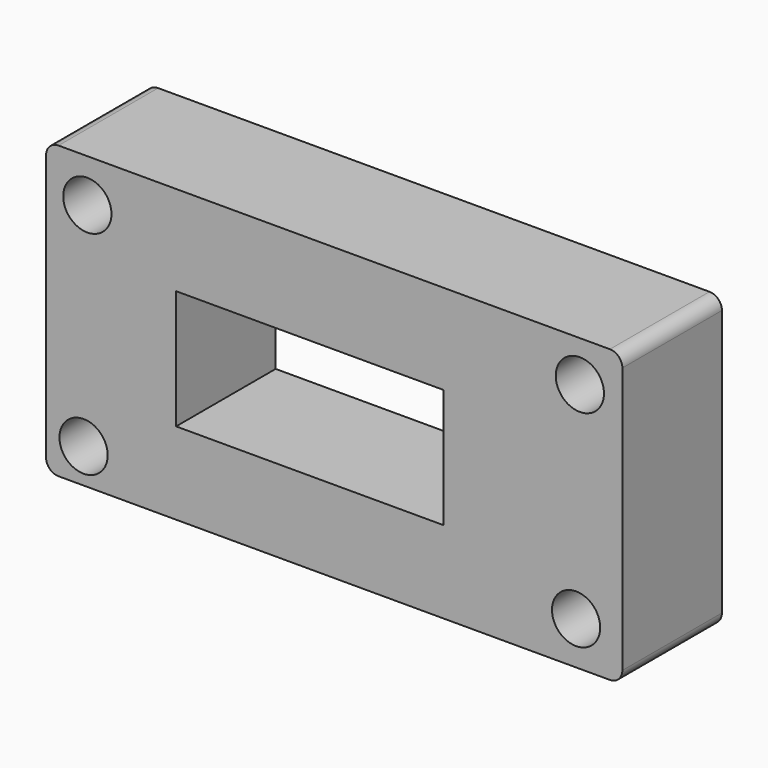
from build123d import *

# Parameters (mm, degrees)
F0_W     = 235.203512
F0_H     = 118.836838
F0_R     = 9.843794
F0_W_2   = 109.183416
F0_H_2   = 48.583305
F1_DEPTH = 50.8
F2_R     = 5.08
F3_R     = 5.08
F4_R     = 5.08


with BuildPart() as f1:
    # F0 (on Front) → F1 (new body)
    with BuildSketch(Plane.XZ):
        with Locations((-7.397939, -7.492734)):
            Rectangle(F0_W, F0_H)
        with Locations((-109.693609, -52.839234)):
            Circle(F0_R, mode=Mode.SUBTRACT)
        with Locations((-17.346896, -9.089239)):
            Rectangle(F0_W_2, F0_H_2, mode=Mode.SUBTRACT)
        with Locations((91.326304, -49.401499)):
            Circle(F0_R, mode=Mode.SUBTRACT)
        with Locations((-108.162999, 34.3371)):
            Circle(F0_R, mode=Mode.SUBTRACT)
        with Locations((92.856914, 35.22383)):
            Circle(F0_R, mode=Mode.SUBTRACT)
    extrude(amount=F1_DEPTH)

    # F2
    f2_edges = [f1.edges().sort_by_distance(p)[0] for p in [
        (110.203817, -25.4, -66.911153),
        (-124.999695, -25.4, -66.911153),
    ]]
    fillet(f2_edges, radius=F2_R)

    # F3
    f3_edges = [f1.edges().sort_by_distance(p)[0] for p in [
        (-124.999695, -25.4, 51.925685),
    ]]
    fillet(f3_edges, radius=F3_R)

    # F4
    f4_edges = [f1.edges().sort_by_distance(p)[0] for p in [
        (110.203817, -25.4, 51.925685),
    ]]
    fillet(f4_edges, radius=F4_R)


solid = f1.part
